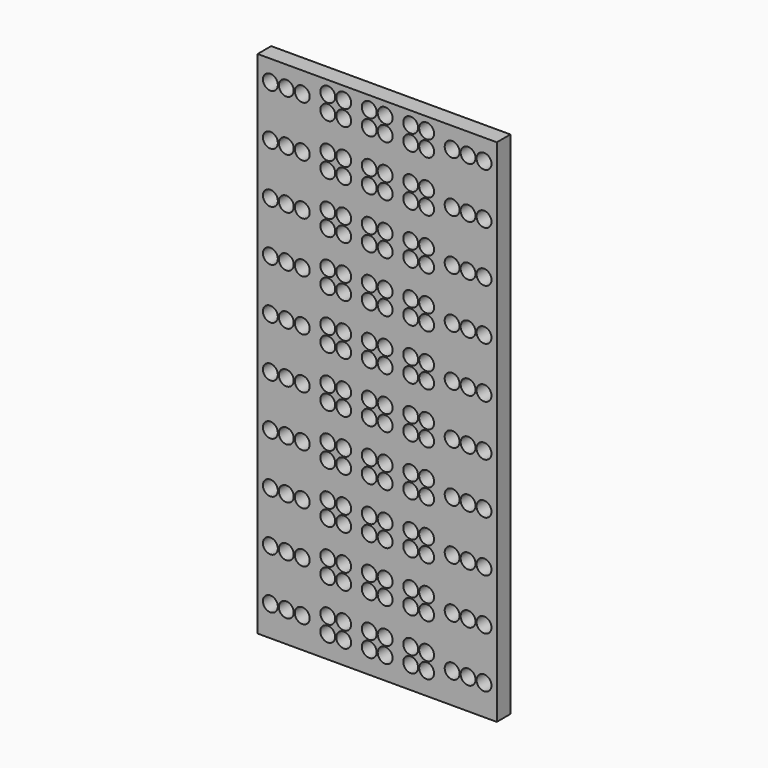
from build123d import *

# Parameters (mm, degrees)
F1_W     = 357.1875
F1_H     = 762
F1_R     = 11.1125
F2_DEPTH = 25.4


with BuildPart() as f2:
    # F1 (on Front) → F2 (new body)
    with BuildSketch(Plane.XZ):
        with Locations((178.59375, 381)):
            Rectangle(F1_W, F1_H)
        with Locations((19.05, 45.24375)):
            Circle(F1_R, mode=Mode.SUBTRACT)
        with Locations((42.8625, 45.24375)):
            Circle(F1_R, mode=Mode.SUBTRACT)
        with Locations((66.675, 45.24375)):
            Circle(F1_R, mode=Mode.SUBTRACT)
        with Locations((19.05, 121.44375)):
            Circle(F1_R, mode=Mode.SUBTRACT)
        with Locations((42.8625, 121.44375)):
            Circle(F1_R, mode=Mode.SUBTRACT)
        with Locations((66.675, 121.44375)):
            Circle(F1_R, mode=Mode.SUBTRACT)
        with Locations((104.775, 33.3375)):
            Circle(F1_R, mode=Mode.SUBTRACT)
        with Locations((128.5875, 33.3375)):
            Circle(F1_R, mode=Mode.SUBTRACT)
        with Locations((104.775, 57.15)):
            Circle(F1_R, mode=Mode.SUBTRACT)
        with Locations((128.5875, 57.15)):
            Circle(F1_R, mode=Mode.SUBTRACT)
        with Locations((166.6875, 33.3375)):
            Circle(F1_R, mode=Mode.SUBTRACT)
        with Locations((166.6875, 57.15)):
            Circle(F1_R, mode=Mode.SUBTRACT)
        with Locations((104.775, 109.5375)):
            Circle(F1_R, mode=Mode.SUBTRACT)
        with Locations((104.775, 133.35)):
            Circle(F1_R, mode=Mode.SUBTRACT)
        with Locations((128.5875, 109.5375)):
            Circle(F1_R, mode=Mode.SUBTRACT)
        with Locations((128.5875, 133.35)):
            Circle(F1_R, mode=Mode.SUBTRACT)
        with Locations((104.775, 185.7375)):
            Circle(F1_R, mode=Mode.SUBTRACT)
        with Locations((128.5875, 185.7375)):
            Circle(F1_R, mode=Mode.SUBTRACT)
        with Locations((166.6875, 109.5375)):
            Circle(F1_R, mode=Mode.SUBTRACT)
        with Locations((166.6875, 133.35)):
            Circle(F1_R, mode=Mode.SUBTRACT)
        with Locations((166.6875, 185.7375)):
            Circle(F1_R, mode=Mode.SUBTRACT)
        with Locations((19.05, 197.64375)):
            Circle(F1_R, mode=Mode.SUBTRACT)
        with Locations((42.8625, 197.64375)):
            Circle(F1_R, mode=Mode.SUBTRACT)
        with Locations((19.05, 273.84375)):
            Circle(F1_R, mode=Mode.SUBTRACT)
        with Locations((42.8625, 273.84375)):
            Circle(F1_R, mode=Mode.SUBTRACT)
        with Locations((66.675, 197.64375)):
            Circle(F1_R, mode=Mode.SUBTRACT)
        with Locations((66.675, 273.84375)):
            Circle(F1_R, mode=Mode.SUBTRACT)
        with Locations((19.05, 350.04375)):
            Circle(F1_R, mode=Mode.SUBTRACT)
        with Locations((42.8625, 350.04375)):
            Circle(F1_R, mode=Mode.SUBTRACT)
        with Locations((66.675, 350.04375)):
            Circle(F1_R, mode=Mode.SUBTRACT)
        with Locations((104.775, 209.55)):
            Circle(F1_R, mode=Mode.SUBTRACT)
        with Locations((128.5875, 209.55)):
            Circle(F1_R, mode=Mode.SUBTRACT)
        with Locations((104.775, 261.9375)):
            Circle(F1_R, mode=Mode.SUBTRACT)
        with Locations((128.5875, 261.9375)):
            Circle(F1_R, mode=Mode.SUBTRACT)
        with Locations((166.6875, 209.55)):
            Circle(F1_R, mode=Mode.SUBTRACT)
        with Locations((166.6875, 261.9375)):
            Circle(F1_R, mode=Mode.SUBTRACT)
        with Locations((104.775, 285.75)):
            Circle(F1_R, mode=Mode.SUBTRACT)
        with Locations((128.5875, 285.75)):
            Circle(F1_R, mode=Mode.SUBTRACT)
        with Locations((104.775, 338.1375)):
            Circle(F1_R, mode=Mode.SUBTRACT)
        with Locations((104.775, 361.95)):
            Circle(F1_R, mode=Mode.SUBTRACT)
        with Locations((128.5875, 338.1375)):
            Circle(F1_R, mode=Mode.SUBTRACT)
        with Locations((128.5875, 361.95)):
            Circle(F1_R, mode=Mode.SUBTRACT)
        with Locations((166.6875, 285.75)):
            Circle(F1_R, mode=Mode.SUBTRACT)
        with Locations((166.6875, 338.1375)):
            Circle(F1_R, mode=Mode.SUBTRACT)
        with Locations((166.6875, 361.95)):
            Circle(F1_R, mode=Mode.SUBTRACT)
        with Locations((190.5, 33.3375)):
            Circle(F1_R, mode=Mode.SUBTRACT)
        with Locations((190.5, 57.15)):
            Circle(F1_R, mode=Mode.SUBTRACT)
        with Locations((228.6, 33.3375)):
            Circle(F1_R, mode=Mode.SUBTRACT)
        with Locations((252.4125, 33.3375)):
            Circle(F1_R, mode=Mode.SUBTRACT)
        with Locations((228.6, 57.15)):
            Circle(F1_R, mode=Mode.SUBTRACT)
        with Locations((252.4125, 57.15)):
            Circle(F1_R, mode=Mode.SUBTRACT)
        with Locations((190.5, 109.5375)):
            Circle(F1_R, mode=Mode.SUBTRACT)
        with Locations((190.5, 133.35)):
            Circle(F1_R, mode=Mode.SUBTRACT)
        with Locations((190.5, 185.7375)):
            Circle(F1_R, mode=Mode.SUBTRACT)
        with Locations((228.6, 109.5375)):
            Circle(F1_R, mode=Mode.SUBTRACT)
        with Locations((228.6, 133.35)):
            Circle(F1_R, mode=Mode.SUBTRACT)
        with Locations((252.4125, 109.5375)):
            Circle(F1_R, mode=Mode.SUBTRACT)
        with Locations((252.4125, 133.35)):
            Circle(F1_R, mode=Mode.SUBTRACT)
        with Locations((228.6, 185.7375)):
            Circle(F1_R, mode=Mode.SUBTRACT)
        with Locations((252.4125, 185.7375)):
            Circle(F1_R, mode=Mode.SUBTRACT)
        with Locations((290.5125, 45.24375)):
            Circle(F1_R, mode=Mode.SUBTRACT)
        with Locations((314.325, 45.24375)):
            Circle(F1_R, mode=Mode.SUBTRACT)
        with Locations((338.1375, 45.24375)):
            Circle(F1_R, mode=Mode.SUBTRACT)
        with Locations((290.5125, 121.44375)):
            Circle(F1_R, mode=Mode.SUBTRACT)
        with Locations((314.325, 121.44375)):
            Circle(F1_R, mode=Mode.SUBTRACT)
        with Locations((338.1375, 121.44375)):
            Circle(F1_R, mode=Mode.SUBTRACT)
        with Locations((190.5, 209.55)):
            Circle(F1_R, mode=Mode.SUBTRACT)
        with Locations((190.5, 261.9375)):
            Circle(F1_R, mode=Mode.SUBTRACT)
        with Locations((228.6, 209.55)):
            Circle(F1_R, mode=Mode.SUBTRACT)
        with Locations((252.4125, 209.55)):
            Circle(F1_R, mode=Mode.SUBTRACT)
        with Locations((228.6, 261.9375)):
            Circle(F1_R, mode=Mode.SUBTRACT)
        with Locations((252.4125, 261.9375)):
            Circle(F1_R, mode=Mode.SUBTRACT)
        with Locations((190.5, 285.75)):
            Circle(F1_R, mode=Mode.SUBTRACT)
        with Locations((190.5, 338.1375)):
            Circle(F1_R, mode=Mode.SUBTRACT)
        with Locations((190.5, 361.95)):
            Circle(F1_R, mode=Mode.SUBTRACT)
        with Locations((228.6, 285.75)):
            Circle(F1_R, mode=Mode.SUBTRACT)
        with Locations((252.4125, 285.75)):
            Circle(F1_R, mode=Mode.SUBTRACT)
        with Locations((228.6, 338.1375)):
            Circle(F1_R, mode=Mode.SUBTRACT)
        with Locations((228.6, 361.95)):
            Circle(F1_R, mode=Mode.SUBTRACT)
        with Locations((252.4125, 338.1375)):
            Circle(F1_R, mode=Mode.SUBTRACT)
        with Locations((252.4125, 361.95)):
            Circle(F1_R, mode=Mode.SUBTRACT)
        with Locations((290.5125, 197.64375)):
            Circle(F1_R, mode=Mode.SUBTRACT)
        with Locations((290.5125, 273.84375)):
            Circle(F1_R, mode=Mode.SUBTRACT)
        with Locations((314.325, 197.64375)):
            Circle(F1_R, mode=Mode.SUBTRACT)
        with Locations((338.1375, 197.64375)):
            Circle(F1_R, mode=Mode.SUBTRACT)
        with Locations((314.325, 273.84375)):
            Circle(F1_R, mode=Mode.SUBTRACT)
        with Locations((338.1375, 273.84375)):
            Circle(F1_R, mode=Mode.SUBTRACT)
        with Locations((290.5125, 350.04375)):
            Circle(F1_R, mode=Mode.SUBTRACT)
        with Locations((314.325, 350.04375)):
            Circle(F1_R, mode=Mode.SUBTRACT)
        with Locations((338.1375, 350.04375)):
            Circle(F1_R, mode=Mode.SUBTRACT)
        with Locations((19.05, 426.24375)):
            Circle(F1_R, mode=Mode.SUBTRACT)
        with Locations((42.8625, 426.24375)):
            Circle(F1_R, mode=Mode.SUBTRACT)
        with Locations((66.675, 426.24375)):
            Circle(F1_R, mode=Mode.SUBTRACT)
        with Locations((19.05, 502.44375)):
            Circle(F1_R, mode=Mode.SUBTRACT)
        with Locations((42.8625, 502.44375)):
            Circle(F1_R, mode=Mode.SUBTRACT)
        with Locations((66.675, 502.44375)):
            Circle(F1_R, mode=Mode.SUBTRACT)
        with Locations((104.775, 414.3375)):
            Circle(F1_R, mode=Mode.SUBTRACT)
        with Locations((128.5875, 414.3375)):
            Circle(F1_R, mode=Mode.SUBTRACT)
        with Locations((104.775, 438.15)):
            Circle(F1_R, mode=Mode.SUBTRACT)
        with Locations((128.5875, 438.15)):
            Circle(F1_R, mode=Mode.SUBTRACT)
        with Locations((166.6875, 414.3375)):
            Circle(F1_R, mode=Mode.SUBTRACT)
        with Locations((166.6875, 438.15)):
            Circle(F1_R, mode=Mode.SUBTRACT)
        with Locations((104.775, 490.5375)):
            Circle(F1_R, mode=Mode.SUBTRACT)
        with Locations((104.775, 514.35)):
            Circle(F1_R, mode=Mode.SUBTRACT)
        with Locations((128.5875, 490.5375)):
            Circle(F1_R, mode=Mode.SUBTRACT)
        with Locations((128.5875, 514.35)):
            Circle(F1_R, mode=Mode.SUBTRACT)
        with Locations((104.775, 566.7375)):
            Circle(F1_R, mode=Mode.SUBTRACT)
        with Locations((128.5875, 566.7375)):
            Circle(F1_R, mode=Mode.SUBTRACT)
        with Locations((166.6875, 490.5375)):
            Circle(F1_R, mode=Mode.SUBTRACT)
        with Locations((166.6875, 514.35)):
            Circle(F1_R, mode=Mode.SUBTRACT)
        with Locations((166.6875, 566.7375)):
            Circle(F1_R, mode=Mode.SUBTRACT)
        with Locations((19.05, 578.64375)):
            Circle(F1_R, mode=Mode.SUBTRACT)
        with Locations((42.8625, 578.64375)):
            Circle(F1_R, mode=Mode.SUBTRACT)
        with Locations((19.05, 654.84375)):
            Circle(F1_R, mode=Mode.SUBTRACT)
        with Locations((42.8625, 654.84375)):
            Circle(F1_R, mode=Mode.SUBTRACT)
        with Locations((66.675, 578.64375)):
            Circle(F1_R, mode=Mode.SUBTRACT)
        with Locations((66.675, 654.84375)):
            Circle(F1_R, mode=Mode.SUBTRACT)
        with Locations((19.05, 731.04375)):
            Circle(F1_R, mode=Mode.SUBTRACT)
        with Locations((42.8625, 731.04375)):
            Circle(F1_R, mode=Mode.SUBTRACT)
        with Locations((66.675, 731.04375)):
            Circle(F1_R, mode=Mode.SUBTRACT)
        with Locations((104.775, 590.55)):
            Circle(F1_R, mode=Mode.SUBTRACT)
        with Locations((128.5875, 590.55)):
            Circle(F1_R, mode=Mode.SUBTRACT)
        with Locations((104.775, 642.9375)):
            Circle(F1_R, mode=Mode.SUBTRACT)
        with Locations((128.5875, 642.9375)):
            Circle(F1_R, mode=Mode.SUBTRACT)
        with Locations((166.6875, 590.55)):
            Circle(F1_R, mode=Mode.SUBTRACT)
        with Locations((166.6875, 642.9375)):
            Circle(F1_R, mode=Mode.SUBTRACT)
        with Locations((104.775, 666.75)):
            Circle(F1_R, mode=Mode.SUBTRACT)
        with Locations((128.5875, 666.75)):
            Circle(F1_R, mode=Mode.SUBTRACT)
        with Locations((104.775, 719.1375)):
            Circle(F1_R, mode=Mode.SUBTRACT)
        with Locations((104.775, 742.95)):
            Circle(F1_R, mode=Mode.SUBTRACT)
        with Locations((128.5875, 719.1375)):
            Circle(F1_R, mode=Mode.SUBTRACT)
        with Locations((128.5875, 742.95)):
            Circle(F1_R, mode=Mode.SUBTRACT)
        with Locations((166.6875, 666.75)):
            Circle(F1_R, mode=Mode.SUBTRACT)
        with Locations((166.6875, 719.1375)):
            Circle(F1_R, mode=Mode.SUBTRACT)
        with Locations((166.6875, 742.95)):
            Circle(F1_R, mode=Mode.SUBTRACT)
        with Locations((190.5, 414.3375)):
            Circle(F1_R, mode=Mode.SUBTRACT)
        with Locations((190.5, 438.15)):
            Circle(F1_R, mode=Mode.SUBTRACT)
        with Locations((228.6, 414.3375)):
            Circle(F1_R, mode=Mode.SUBTRACT)
        with Locations((252.4125, 414.3375)):
            Circle(F1_R, mode=Mode.SUBTRACT)
        with Locations((228.6, 438.15)):
            Circle(F1_R, mode=Mode.SUBTRACT)
        with Locations((252.4125, 438.15)):
            Circle(F1_R, mode=Mode.SUBTRACT)
        with Locations((190.5, 490.5375)):
            Circle(F1_R, mode=Mode.SUBTRACT)
        with Locations((190.5, 514.35)):
            Circle(F1_R, mode=Mode.SUBTRACT)
        with Locations((190.5, 566.7375)):
            Circle(F1_R, mode=Mode.SUBTRACT)
        with Locations((228.6, 490.5375)):
            Circle(F1_R, mode=Mode.SUBTRACT)
        with Locations((228.6, 514.35)):
            Circle(F1_R, mode=Mode.SUBTRACT)
        with Locations((252.4125, 490.5375)):
            Circle(F1_R, mode=Mode.SUBTRACT)
        with Locations((252.4125, 514.35)):
            Circle(F1_R, mode=Mode.SUBTRACT)
        with Locations((228.6, 566.7375)):
            Circle(F1_R, mode=Mode.SUBTRACT)
        with Locations((252.4125, 566.7375)):
            Circle(F1_R, mode=Mode.SUBTRACT)
        with Locations((290.5125, 426.24375)):
            Circle(F1_R, mode=Mode.SUBTRACT)
        with Locations((314.325, 426.24375)):
            Circle(F1_R, mode=Mode.SUBTRACT)
        with Locations((338.1375, 426.24375)):
            Circle(F1_R, mode=Mode.SUBTRACT)
        with Locations((290.5125, 502.44375)):
            Circle(F1_R, mode=Mode.SUBTRACT)
        with Locations((314.325, 502.44375)):
            Circle(F1_R, mode=Mode.SUBTRACT)
        with Locations((338.1375, 502.44375)):
            Circle(F1_R, mode=Mode.SUBTRACT)
        with Locations((190.5, 590.55)):
            Circle(F1_R, mode=Mode.SUBTRACT)
        with Locations((190.5, 642.9375)):
            Circle(F1_R, mode=Mode.SUBTRACT)
        with Locations((228.6, 590.55)):
            Circle(F1_R, mode=Mode.SUBTRACT)
        with Locations((252.4125, 590.55)):
            Circle(F1_R, mode=Mode.SUBTRACT)
        with Locations((228.6, 642.9375)):
            Circle(F1_R, mode=Mode.SUBTRACT)
        with Locations((252.4125, 642.9375)):
            Circle(F1_R, mode=Mode.SUBTRACT)
        with Locations((190.5, 666.75)):
            Circle(F1_R, mode=Mode.SUBTRACT)
        with Locations((190.5, 719.1375)):
            Circle(F1_R, mode=Mode.SUBTRACT)
        with Locations((190.5, 742.95)):
            Circle(F1_R, mode=Mode.SUBTRACT)
        with Locations((228.6, 666.75)):
            Circle(F1_R, mode=Mode.SUBTRACT)
        with Locations((252.4125, 666.75)):
            Circle(F1_R, mode=Mode.SUBTRACT)
        with Locations((228.6, 719.1375)):
            Circle(F1_R, mode=Mode.SUBTRACT)
        with Locations((228.6, 742.95)):
            Circle(F1_R, mode=Mode.SUBTRACT)
        with Locations((252.4125, 719.1375)):
            Circle(F1_R, mode=Mode.SUBTRACT)
        with Locations((252.4125, 742.95)):
            Circle(F1_R, mode=Mode.SUBTRACT)
        with Locations((290.5125, 578.64375)):
            Circle(F1_R, mode=Mode.SUBTRACT)
        with Locations((290.5125, 654.84375)):
            Circle(F1_R, mode=Mode.SUBTRACT)
        with Locations((314.325, 578.64375)):
            Circle(F1_R, mode=Mode.SUBTRACT)
        with Locations((338.1375, 578.64375)):
            Circle(F1_R, mode=Mode.SUBTRACT)
        with Locations((314.325, 654.84375)):
            Circle(F1_R, mode=Mode.SUBTRACT)
        with Locations((338.1375, 654.84375)):
            Circle(F1_R, mode=Mode.SUBTRACT)
        with Locations((290.5125, 731.04375)):
            Circle(F1_R, mode=Mode.SUBTRACT)
        with Locations((314.325, 731.04375)):
            Circle(F1_R, mode=Mode.SUBTRACT)
        with Locations((338.1375, 731.04375)):
            Circle(F1_R, mode=Mode.SUBTRACT)
    extrude(amount=F2_DEPTH)


solid = f2.part
